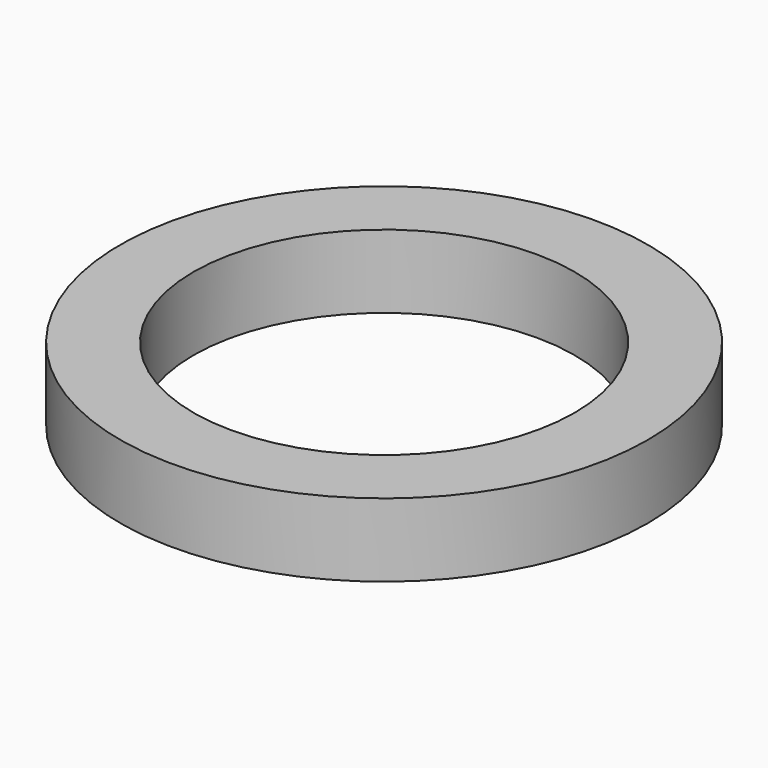
from build123d import *

# Parameters (mm, degrees)
CYLINDER002_R     = 2.6
CYLINDER002_DEPTH = 1
CYLINDER003_R     = 3.6
CYLINDER003_DEPTH = 1


with BuildPart() as cylinder002:
    # Cylinder002 → Cylinder002 (new body)
    with BuildSketch(Plane.XY):
        Circle(CYLINDER002_R)
    extrude(amount=CYLINDER002_DEPTH)


with BuildPart() as f_1mm_spacer:
    # Cylinder003 → Cylinder003 (new body)
    with BuildSketch(Plane.XY):
        Circle(CYLINDER003_R)
    extrude(amount=CYLINDER003_DEPTH)

    # Cut003: cut Cylinder002
    add(cylinder002.part, mode=Mode.SUBTRACT)


solid = f_1mm_spacer.part
